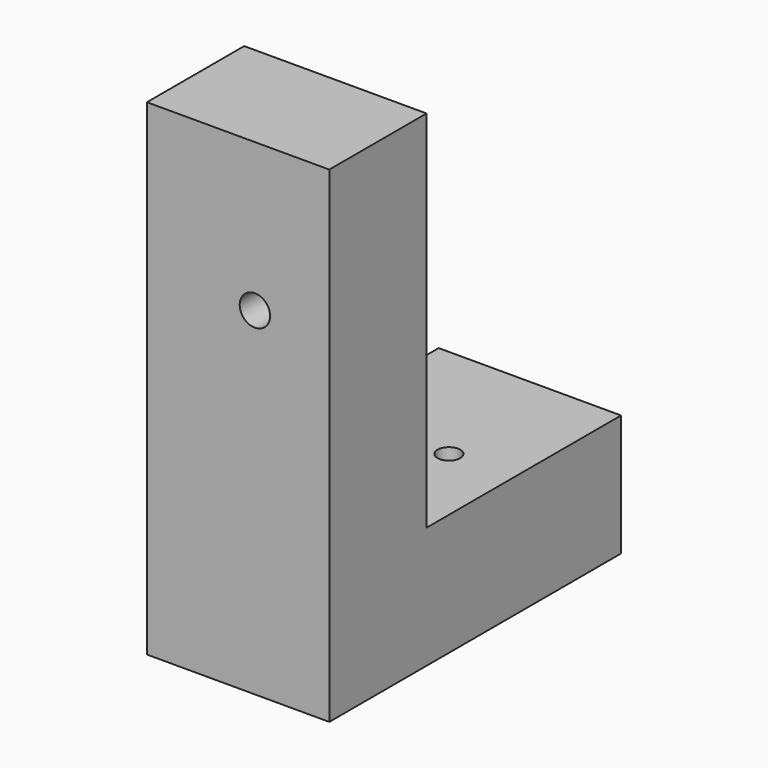
from build123d import *

# Parameters (mm, degrees)
F1_DEPTH = 76.2
F3_D     = 9.525
F5_D     = 12.7


with BuildPart() as f1:
    # F0 (on Right) → F1 (new body)
    with BuildSketch(Plane.YZ):
        Polygon((-152.4, 203.2), (-152.4, 0), (0, 0), (0, 50.8), (-101.6, 50.8), (-101.6, 203.2), align=None)
    extrude(amount=F1_DEPTH)

    # F3 (through all)
    with Locations(Plane.XY.offset(50.8)):
        with Locations((49.338017, -56.317471)):
            Hole(F3_D / 2)

    # F5 (through all)
    with Locations(Plane(origin=(0, -101.6, 0), x_dir=(-1, 0, 0), z_dir=(0, 1, 0))):
        with Locations((-45.108046, 141.260952)):
            Hole(F5_D / 2)


solid = f1.part
